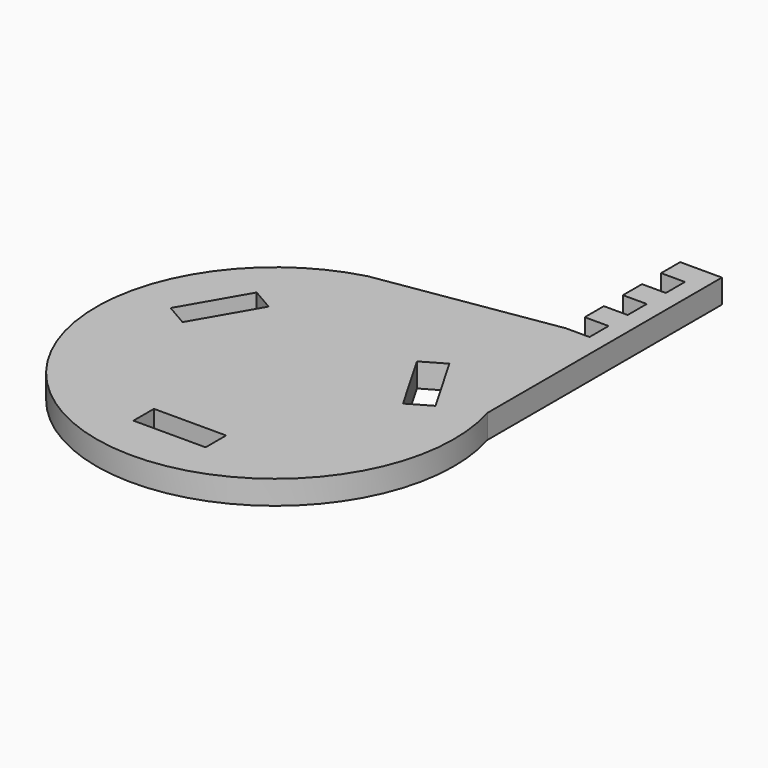
from build123d import *

# Parameters (mm, degrees)
PAD_DEPTH          = 8
SKETCH001_W        = 24.2
SKETCH001_H        = 8.6
POCKET_DEPTH       = 433.263242
POLARPATTERN_COUNT = 3


with BuildPart() as part:
    # Sketch → Pad (new body)
    with BuildSketch(Plane.XY):
        with BuildLine():
            Line((51.5303, 115.351058), (57.5303, 115.351058))
            Line((57.5303, 115.351058), (57.5303, 17.037153))
            ThreePointArc((-15.362291, 58), (-29.394284, -52.306558), (57.5303, 17.037153))
            Line((43.5303, 67.351058), (-15.362291, 58))
            Line((51.5303, 67.351058), (43.5303, 67.351058))
            Line((51.5303, 75.351058), (51.5303, 67.351058))
            Line((43.5303, 75.351058), (51.5303, 75.351058))
            Line((43.5303, 83.351058), (43.5303, 75.351058))
            Line((51.5303, 83.351058), (43.5303, 83.351058))
            Line((51.5303, 91.351058), (51.5303, 83.351058))
            Line((43.5303, 91.351058), (51.5303, 91.351058))
            Line((43.5303, 99.351058), (43.5303, 91.351058))
            Line((51.5303, 99.351058), (43.5303, 99.351058))
            Line((51.5303, 107.351058), (51.5303, 99.351058))
            Line((43.5303, 107.351058), (51.5303, 107.351058))
            Line((43.5303, 115.351058), (43.5303, 107.351058))
            Line((51.5303, 115.351058), (43.5303, 115.351058))
        make_face()
    extrude(amount=PAD_DEPTH)

    # Sketch001 → Pocket (cut, through all)
    with BuildSketch(Plane.XY.offset(8)):
        with Locations((0, -40)):
            Rectangle(SKETCH001_W, SKETCH001_H)
    pocket = extrude(amount=-POCKET_DEPTH, mode=Mode.SUBTRACT)

    # PolarPattern: Pocket ×3 about axis
    polarpattern_axis = Axis((0, 0, 8), (0, 0, 1))
    for i in range(1, POLARPATTERN_COUNT):
        add(pocket.rotate(polarpattern_axis, i * 360 / POLARPATTERN_COUNT), mode=Mode.SUBTRACT)


solid = part.part
